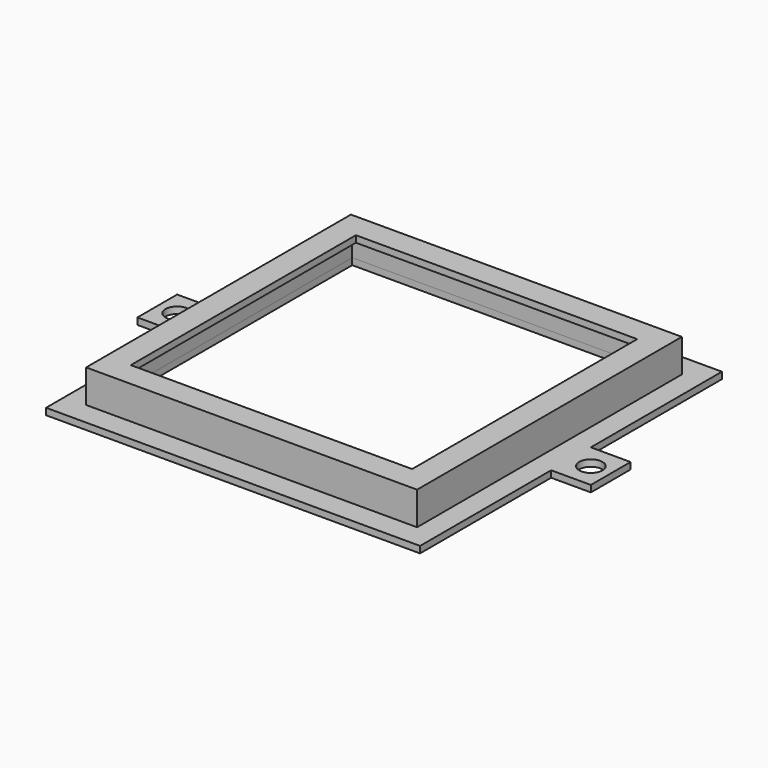
from build123d import *

# Parameters (mm, degrees)
F0_R     = 3.5
F1_DEPTH = 2
F0_W     = 96
F0_H     = 96
F0_W_2   = 85
F0_H_2   = 85
F2_DEPTH = 10
F3_DEPTH = 8
F4_DEPTH = 2


with BuildPart() as f1:
    # F0 (on Top) → F1 (new body)
    with BuildSketch(Plane.XY):
        Polygon((67.5456341952, -75.4192389548), (74.0456341952, -82.4192389548), (74.0456341952, -32.9192389548), (74.0456341952, -25.4192389548), (67.5456341952, -25.4192389548), align=None)
        Polygon((17.5456341952, -82.4192389548), (74.0456341952, -82.4192389548), (67.5456341952, -75.4192389548), (17.5456341952, -75.4192389548), align=None)
        Polygon((-38.9543658048, -82.4192389548), (17.5456341952, -82.4192389548), (17.5456341952, -75.4192389548), (-32.4543658048, -75.4192389548), align=None)
        Polygon((74.0456341952, -25.4192389548), (74.0456341952, -32.9192389548), (86.0456341952, -32.9192389548), (86.0456341952, -17.9192389548), (74.0456341952, -17.9192389548), align=None)
        with BuildLine():
            ThreePointArc((83.5456341952, -25.4192389548), (80.0456341952, -28.9192389548), (76.5456341952, -25.4192389548))
            ThreePointArc((76.5456341952, -25.4192389548), (80.0456341952, -21.9192389548), (83.5456341952, -25.4192389548))
        make_face(mode=Mode.SUBTRACT)
        Polygon((-38.9543658048, -32.9192389548), (-38.9543658048, -82.4192389548), (-32.4543658048, -75.4192389548), (-32.4543658048, -25.4192389548), (-38.9543658048, -25.4192389548), align=None)
        Polygon((67.5456341952, -25.4192389548), (74.0456341952, -25.4192389548), (74.0456341952, -17.9192389548), (74.0456341952, 31.5807610452), (67.5456341952, 24.5807610452), align=None)
        Polygon((-50.9543658048, -32.9192389548), (-38.9543658048, -32.9192389548), (-38.9543658048, -25.4192389548), (-38.9543658048, -17.9192389548), (-50.9543658048, -17.9192389548), align=None)
        with Locations((-44.9543658048, -25.4192389548)):
            Circle(F0_R, mode=Mode.SUBTRACT)
        Polygon((17.5456341952, 24.5807610452), (67.5456341952, 24.5807610452), (74.0456341952, 31.5807610452), (17.5456341952, 31.5807610452), align=None)
        Polygon((-38.9543658048, -17.9192389548), (-38.9543658048, -25.4192389548), (-32.4543658048, -25.4192389548), (-32.4543658048, 24.5807610452), (-38.9543658048, 31.5807610452), align=None)
        Polygon((-32.4543658048, 24.5807610452), (17.5456341952, 24.5807610452), (17.5456341952, 31.5807610452), (-38.9543658048, 31.5807610452), align=None)
    extrude(amount=-F1_DEPTH)

    # F0 (on Top) → F2 (join)
    with BuildSketch(Plane.XY):
        Polygon((17.5456341952, -75.4192389548), (67.5456341952, -75.4192389548), (67.5456341952, -25.4192389548), (67.5456341952, 24.5807610452), (17.5456341952, 24.5807610452), (-32.4543658048, 24.5807610452), (-32.4543658048, -25.4192389548), (-32.4543658048, -75.4192389548), align=None)
        with Locations((17.5456341952, -25.4192389548)):
            Rectangle(F0_W, F0_H, mode=Mode.SUBTRACT)
        with Locations((17.5456341952, -25.4192389548)):
            Rectangle(F0_W, F0_H)
        with Locations((17.5456341952, -25.4192389548)):
            Rectangle(F0_W_2, F0_H_2, mode=Mode.SUBTRACT)
    extrude(amount=F2_DEPTH)

    # F0 (on Top) → F3 (cut)
    with BuildSketch(Plane.XY):
        with Locations((17.5456341952, -25.4192389548)):
            Rectangle(F0_W, F0_H)
        with Locations((17.5456341952, -25.4192389548)):
            Rectangle(F0_W_2, F0_H_2, mode=Mode.SUBTRACT)
    extrude(amount=F3_DEPTH, mode=Mode.SUBTRACT)


with BuildPart() as f4:
    # F0 (on Top) → F4 (new body)
    with BuildSketch(Plane.XY):
        Polygon((17.5456341952, -75.4192389548), (67.5456341952, -75.4192389548), (67.5456341952, -25.4192389548), (67.5456341952, 24.5807610452), (17.5456341952, 24.5807610452), (-32.4543658048, 24.5807610452), (-32.4543658048, -25.4192389548), (-32.4543658048, -75.4192389548), align=None)
        with Locations((17.5456341952, -25.4192389548)):
            Rectangle(F0_W, F0_H, mode=Mode.SUBTRACT)
    extrude(amount=-F4_DEPTH)


solid = Compound([f1.part, f4.part])
